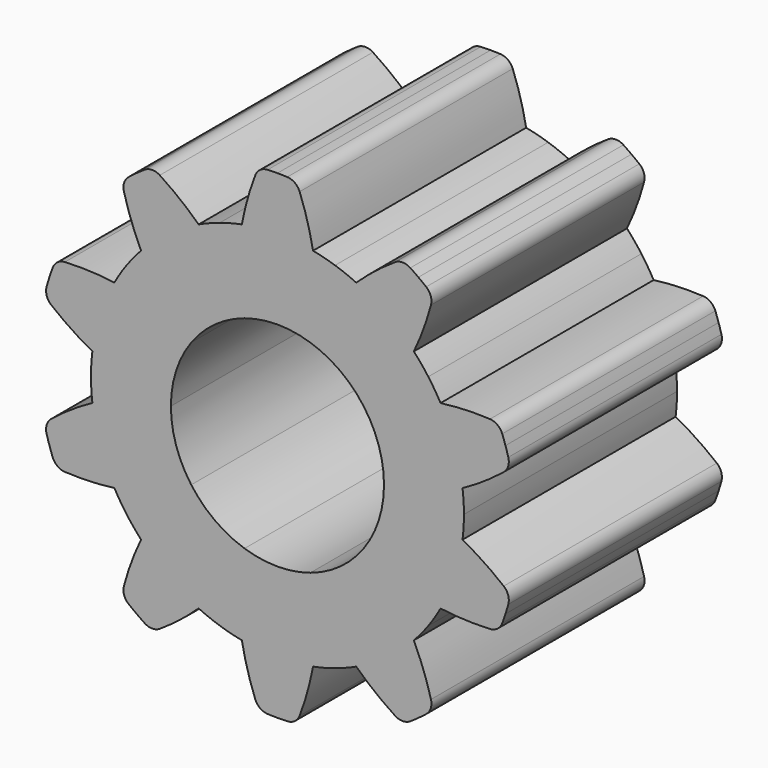
from build123d import *

# Parameters (mm, degrees)
F1_DEPTH = 25
F2_COUNT = 10


with BuildPart() as f1:
    # F0 (on Front) → F1 (new body)
    with BuildSketch(Plane.XZ):
        with BuildLine():
            ThreePointArc((-3.0901699437, 9.510565163), (0, 10), (3.0901699437, 9.510565163))
            Line((3.0901699437, 9.510565163), (5.4077974016, 16.6434890352))
            ThreePointArc((5.4077974016, 16.6434890352), (4.381650071, 16.9425837066), (3.3391574191, 17.1784757103))
            ThreePointArc((3.3391574191, 17.1784757103), (2.8142548796, 19.4430311858), (2.081282357, 21.6490423958))
            ThreePointArc((2.081282357, 21.6490423958), (1.6256906438, 22.2385798355), (0.9212150037, 22.4811334883))
            ThreePointArc((0.9212150037, 22.4811334883), (0.4607040884, 22.4952828776), (0, 22.5))
            ThreePointArc((0, 22.5), (-0.4607040884, 22.4952828776), (-0.9212150037, 22.4811334883))
            ThreePointArc((-0.9212150037, 22.4811334883), (-1.6256906438, 22.2385798355), (-2.081282357, 21.6490423958))
            ThreePointArc((-2.081282357, 21.6490423958), (-2.8142548796, 19.4430311858), (-3.3391574191, 17.1784757103))
            ThreePointArc((-3.3391574191, 17.1784757103), (-4.381650071, 16.9425837066), (-5.4077974016, 16.6434890352))
            Line((-5.4077974016, 16.6434890352), (-3.0901699437, 9.510565163))
        make_face()
    extrude(amount=F1_DEPTH)

    # F2: F1 ×10 about axis
    f2_axis = Axis((0, 0, 0), (0, 1, 0))


with BuildPart() as f1_1:
    add(f1.part)
    for i in range(1, F2_COUNT):
        add(f1.part.rotate(f2_axis, i * 360 / F2_COUNT))


solid = f1_1.part
